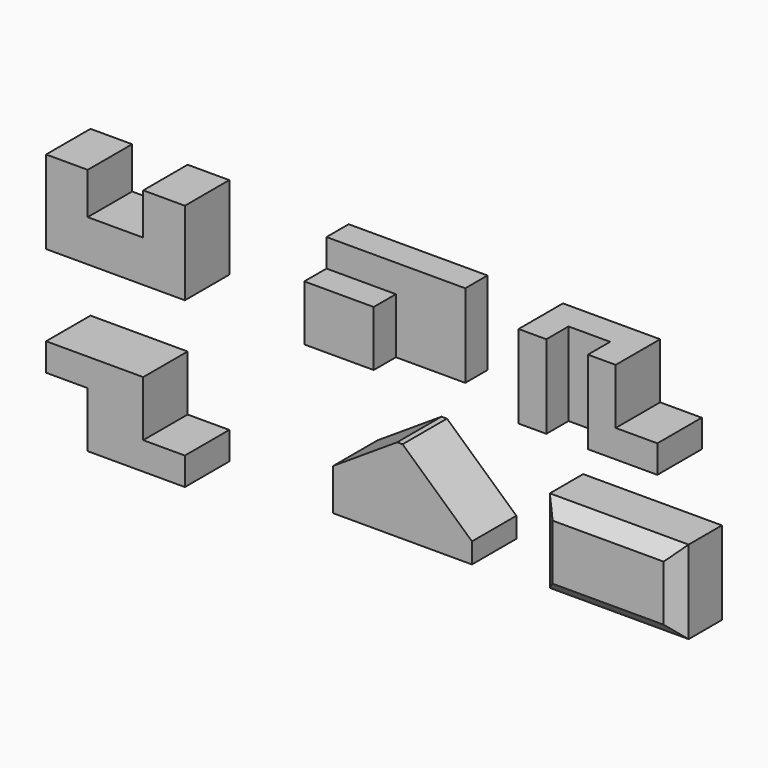
from build123d import *

# Parameters (mm, degrees)
F1_DEPTH  = 101.6
F2_W      = 254
F2_H      = 152.4
F3_DEPTH  = 101.6
F5_DEPTH  = 50.8
F6_W      = 254
F6_H      = 152.4
F7_DEPTH  = 101.6
F8_W      = 76.2
F8_H      = 50.8
F9_DEPTH  = 152.4
F10_W     = 76.2
F10_H     = 101.6
F11_DEPTH = 101.6
F12_W     = 254
F12_H     = 152.4
F13_DEPTH = 101.6
F14_W     = 76.2
F14_H     = 101.6
F15_DEPTH = 101.6
F16_W     = 76.2
F16_H     = 101.6
F17_DEPTH = 101.6
F18_W     = 254
F18_H     = 152.4
F19_DEPTH = 101.6
F21_DEPTH = 101.6
F22_W     = 254
F22_H     = 152.4
F23_DEPTH = 101.6
F24_SIZE  = 25.4


with BuildPart() as f1:
    # F0 (on Front) → F1 (new body)
    with BuildSketch(Plane.XZ):
        Polygon((0, 152.4), (0, 0), (254, 0), (254, 152.4), (177.8, 152.4), (177.8, 76.2), (76.2, 76.2), (76.2, 152.4), align=None)
    extrude(amount=-F1_DEPTH)


with BuildPart() as f3:
    # F2 (on Front) → F3 (new body)
    with BuildSketch(Plane.XZ):
        with Locations((599.587875, 76.2)):
            Rectangle(F2_W, F2_H)
    extrude(amount=-F3_DEPTH)

    # F4 (on face) → F5 (cut)
    with BuildSketch(Plane.XZ):
        Polygon((726.587875, 152.4), (472.587875, 152.4), (472.587875, 101.6), (599.587875, 101.6), (599.587875, 0), (726.587875, 0), align=None)
    extrude(amount=-F5_DEPTH, mode=Mode.SUBTRACT)


with BuildPart() as f7:
    # F6 (on Front) → F7 (new body)
    with BuildSketch(Plane.XZ):
        with Locations((991.761114, 76.2)):
            Rectangle(F6_W, F6_H)
    extrude(amount=-F7_DEPTH)

    # F8 (on face) → F9 (cut)
    with BuildSketch(Plane.XY.offset(152.4)):
        with Locations((953.661114, 25.4)):
            Rectangle(F8_W, F8_H)
    extrude(amount=-F9_DEPTH, mode=Mode.SUBTRACT)

    # F10 (on face) → F11 (cut)
    with BuildSketch(Plane.XZ):
        with Locations((1080.661114, 101.6)):
            Rectangle(F10_W, F10_H)
    extrude(amount=-F11_DEPTH, mode=Mode.SUBTRACT)


with BuildPart() as f13:
    # F12 (on Front) → F13 (new body)
    with BuildSketch(Plane.XZ):
        with Locations((127, -224.72126)):
            Rectangle(F12_W, F12_H)
    extrude(amount=-F13_DEPTH)

    # F14 (on face) → F15 (cut)
    with BuildSketch(Plane.XZ):
        with Locations((38.1, -250.12126)):
            Rectangle(F14_W, F14_H)
    extrude(amount=-F15_DEPTH, mode=Mode.SUBTRACT)

    # F16 (on face) → F17 (cut)
    with BuildSketch(Plane.XZ):
        with Locations((215.9, -199.32126)):
            Rectangle(F16_W, F16_H)
    extrude(amount=-F17_DEPTH, mode=Mode.SUBTRACT)


with BuildPart() as f19:
    # F18 (on face) → F19 (new body)
    with BuildSketch(Plane.XZ.offset(-50.8)):
        with Locations((611.785993, -212.433896)):
            Rectangle(F18_W, F18_H)
    extrude(amount=-F19_DEPTH)

    # F20 (on face) → F21 (cut)
    with BuildSketch(Plane.XZ.offset(-50.8)):
        Polygon((484.785993, -136.233896), (484.785993, -212.433896), (601.874208, -136.233896), align=None)
        Polygon((738.785993, -136.233896), (611.785993, -136.233896), (738.785993, -251.412464), align=None)
    extrude(amount=-F21_DEPTH, mode=Mode.SUBTRACT)


with BuildPart() as f23:
    # F22 (on face) → F23 (new body)
    with BuildSketch(Plane.XZ.offset(-50.8)):
        with Locations((988.032371, -220.746366)):
            Rectangle(F22_W, F22_H)
    extrude(amount=-F23_DEPTH)

    # F24
    f24_edges = [f23.edges().sort_by_distance(p)[0] for p in [
        (988.032371, 50.8, -144.546366),
        (861.032371, 50.8, -220.746366),
        (988.032371, 50.8, -296.946366),
        (1115.032371, 50.8, -220.746366),
    ]]
    chamfer(f24_edges, length=F24_SIZE)


solid = Compound([f1.part, f3.part, f7.part, f13.part, f19.part, f23.part])
